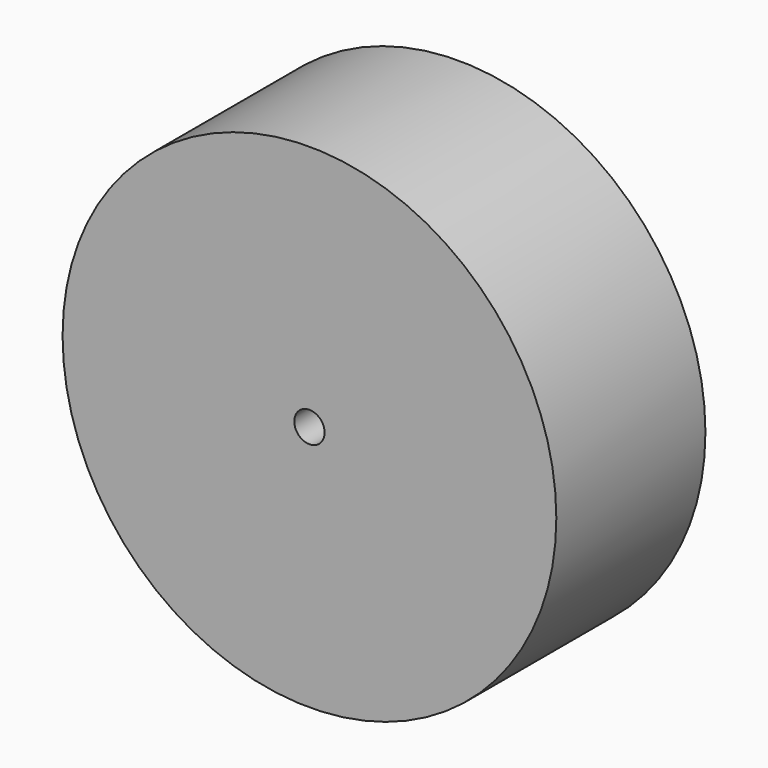
from build123d import *

# Parameters (mm, degrees)
F0_R     = 34.441132
F1_DEPTH = 26
F2_R     = 2.117003
F3_DEPTH = 25


with BuildPart() as f1:
    # F0 (on Front) → F1 (new body)
    with BuildSketch(Plane.XZ):
        Circle(F0_R)
        Circle(F0_R)
    extrude(amount=F1_DEPTH)

    # F2 (on face) → F3 (cut)
    with BuildSketch(Plane.XZ.offset(26)):
        Circle(F2_R)
    extrude(amount=-F3_DEPTH, mode=Mode.SUBTRACT)


solid = f1.part
